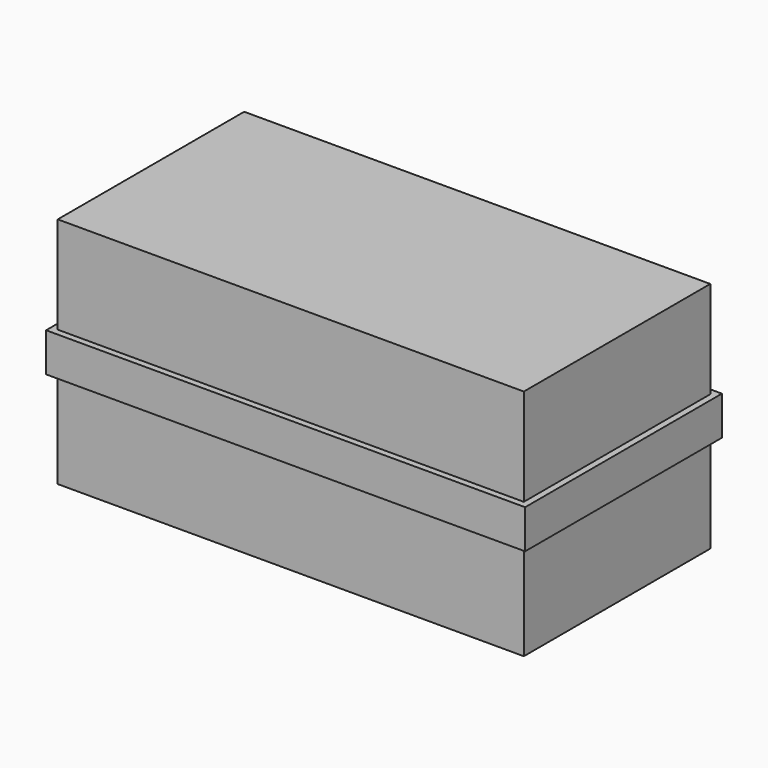
from build123d import *

# Parameters (mm, degrees)
F0_W     = 457.2
F0_H     = 228.6
F1_DEPTH = 114.3
F2_W     = 469.9
F2_H     = 241.3
F3_DEPTH = 19.05


with BuildPart() as f1:
    # F0 (on Top) → F1 (new body, symmetric)
    with BuildSketch(Plane.XY):
        Rectangle(F0_W, F0_H)
    extrude(amount=F1_DEPTH, both=True)

    # F2 (on Top) → F3 (join, symmetric)
    with BuildSketch(Plane.XY):
        Rectangle(F2_W, F2_H)
    extrude(amount=F3_DEPTH, both=True)


solid = f1.part
